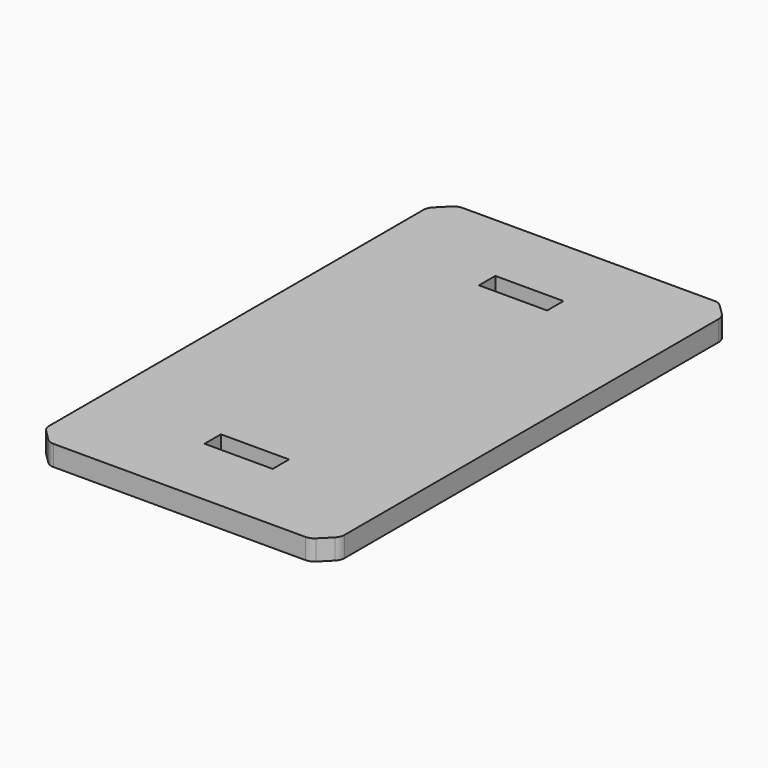
from build123d import *

# Parameters (mm, degrees)
SKETCH_W     = 260
SKETCH_H     = 450
PAD_DEPTH    = 18
SKETCH001_W  = 60
SKETCH001_H  = 18
POCKET_DEPTH = 12
CHAMFER_SIZE = 15
FILLET_R     = 10


with BuildPart() as part:
    # Sketch → Pad (new body)
    with BuildSketch(Plane.XY):
        Rectangle(SKETCH_W, SKETCH_H)
    extrude(amount=PAD_DEPTH)

    # Sketch001 → Pocket (cut)
    with BuildSketch(Plane.XY.offset(18)):
        with Locations((0, 151)):
            Rectangle(SKETCH001_W, SKETCH001_H)
    pocket = extrude(amount=-POCKET_DEPTH, mode=Mode.SUBTRACT)

    # Mirrored: Pocket across Sketch001 H_Axis
    add(pocket.mirror(Plane(origin=(0, 0, 18), x_dir=(0, 0, 1), z_dir=(0, 1, 0))), mode=Mode.SUBTRACT)

    # Chamfer
    chamfer_edges = [part.edges().sort_by_distance(p)[0] for p in [
        (-130, -225, 9),
        (-130, 225, 9),
        (130, 225, 9),
        (130, -225, 9),
    ]]
    chamfer(chamfer_edges, length=CHAMFER_SIZE)

    # Fillet
    fillet_edges = [part.edges().sort_by_distance(p)[0] for p in [
        (115, -225, 9),
        (130, -210, 9),
        (-115, -225, 9),
        (-130, -210, 9),
        (-130, 210, 9),
        (-115, 225, 9),
        (115, 225, 9),
        (130, 210, 9),
    ]]
    fillet(fillet_edges, radius=FILLET_R)


solid = part.part
